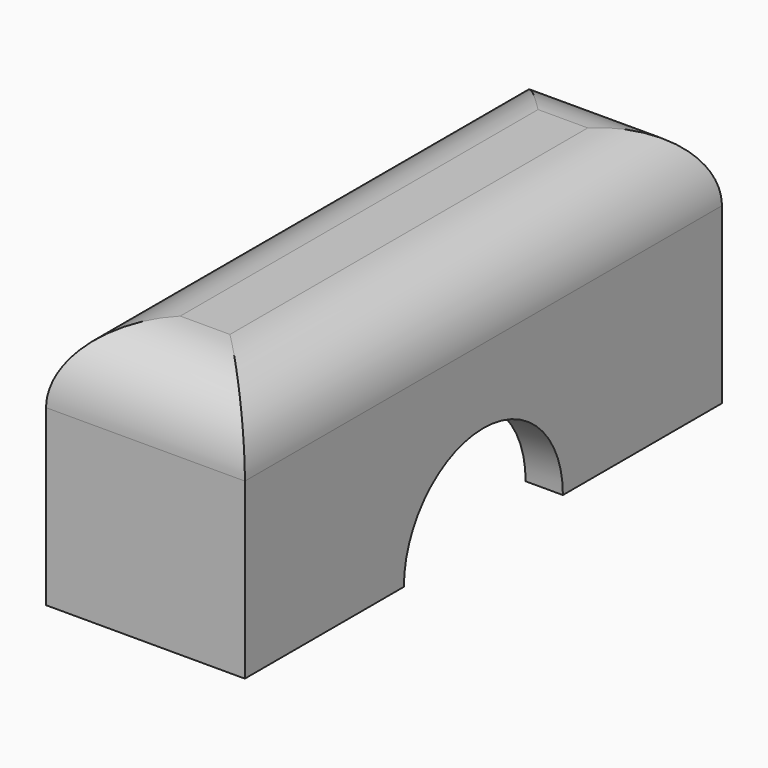
from build123d import *

# Parameters (mm, degrees)
F0_W     = 8
F0_H     = 24
F1_DEPTH = 10
F2_T     = -1.5
F4_D     = 8
F5_R     = 3


with BuildPart() as f1:
    # F0 (on Top) → F1 (new body)
    with BuildSketch(Plane.XY):
        Rectangle(F0_W, F0_H)
    extrude(amount=F1_DEPTH)

    # F2
    f2_openings = [f1.faces().sort_by_distance(p)[0] for p in [
        (0, 0, 0),
    ]]
    offset(amount=F2_T, openings=f2_openings)

    # F4 (through all)
    with Locations(Plane.YZ.offset(4)):
        with Locations((0, 0)):
            Hole(F4_D / 2)

    # F5
    f5_edges = [f1.edges().sort_by_distance(p)[0] for p in [
        (0, -12, 10),
        (4, 0, 10),
        (0, 12, 10),
        (-4, 0, 10),
    ]]
    fillet(f5_edges, radius=F5_R)


solid = f1.part
